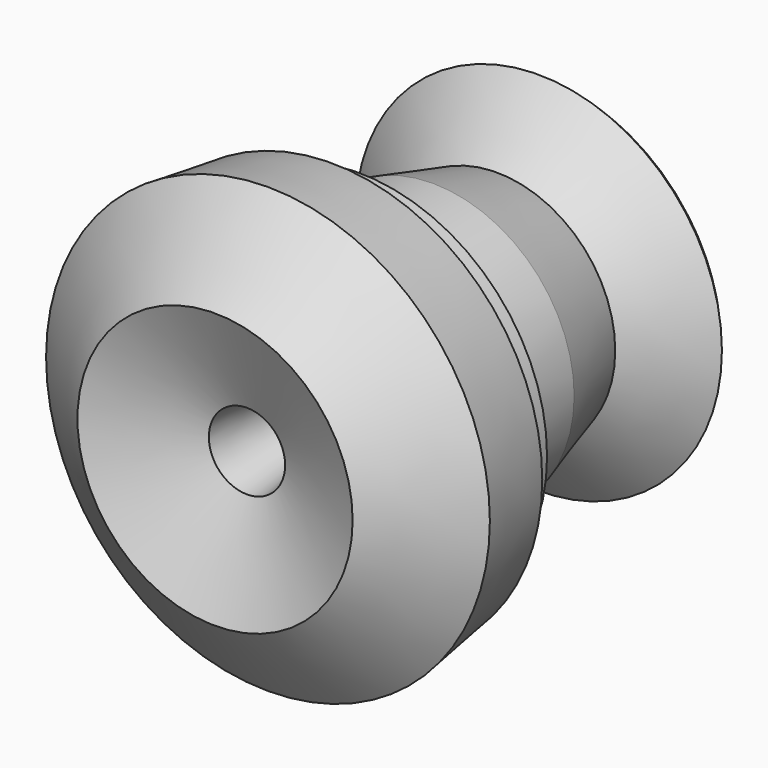
from build123d import *


with BuildPart() as f1:
    # F0 (on Top) → F1 (revolve)
    with BuildSketch(Plane.XY):
        with BuildLine():
            Line((37.1734313667, 38.7707278132), (57.5729318389, 55.1762591696))
            ThreePointArc((57.5729318389, 55.1762591696), (18.4319658161, 57.0474492812), (21.2852002254, 17.9657959508))
            Line((21.2852002254, 17.9657959508), (37.1734313667, 38.7707278132))
        make_face()
    revolve(axis=Axis((0, 39.6419782192, 0), (0, -1, 0)))


with BuildPart() as f1b:
    # F0 (on Top) → F1, piece 2 (revolve)
    with BuildSketch(Plane.XY):
        with BuildLine():
            Line((44.3857150864, 13.6059897429), (37.1734313667, 38.7707278132))
            Line((37.1734313667, 38.7707278132), (33.3461741209, 12.8741415406))
            ThreePointArc((33.3461741209, 12.8741415406), (33.5332718239, 12.8471802724), (33.720559335, 12.82157073))
            Line((33.720559335, 12.82157073), (33.720559335, 13.6059897429))
            Line((33.720559335, 13.6059897429), (44.3857150864, 13.6059897429))
        make_face()
    revolve(axis=Axis((0, 39.6419782192, 0), (0, -1, 0)))


with BuildPart() as f1c:
    # F0 (on Top) → F1, piece 3 (revolve)
    with BuildSketch(Plane.XY):
        Polygon((59.1693805112, -15.5042126177), (44.3857150864, -9.5687644746), (44.3857150864, -9.851631039), (33.720559335, -9.851631039), (33.720559335, -5.2868440522), (7.2282935617, -26.0782450663), (11.9880421336, -59.4169207368), (43.2400564788, -71.9641953932), (69.732322252, -51.1727943791), (66.1562937623, -26.1252415079), (59.1693805112, -26.1252415079), align=None)
    revolve(axis=Axis((0, 39.6419782192, 0), (0, -1, 0)))


with BuildPart() as f1d:
    # F0 (on Top) → F1, piece 4 (revolve)
    with BuildSketch(Plane.XY):
        with BuildLine():
            Line((44.3857150864, -9.5687644746), (44.3857150864, 13.6059897429))
            ThreePointArc((44.3857150864, 13.6059897429), (39.0936194713, 12.6633733658), (33.720559335, 12.82157073))
            Line((33.720559335, 12.82157073), (33.720559335, -5.2868440522))
            Line((33.720559335, -5.2868440522), (44.3857150864, -9.5687644746))
        make_face()
    revolve(axis=Axis((0, 39.6419782192, 0), (0, -1, 0)))


solid = Compound([f1.part, f1b.part, f1c.part, f1d.part])
